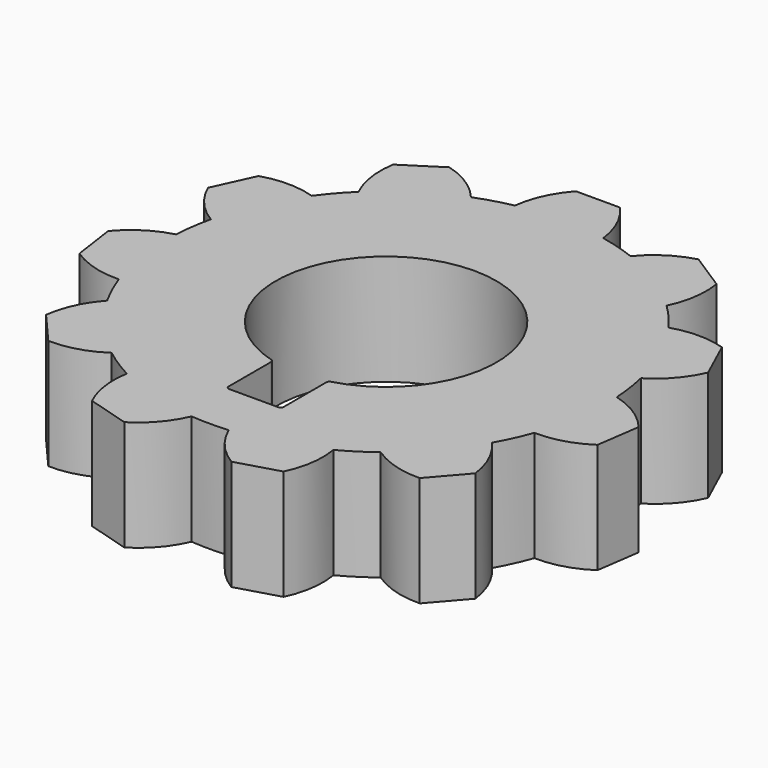
from build123d import *

# Parameters (mm, degrees)
F1_DEPTH = 6.35


with BuildPart() as f1:
    # F0 (on Top) → F1 (new body)
    with BuildSketch(Plane.XY):
        with BuildLine():
            Line((1.27, 15.24), (-1.27, 15.24))
            ThreePointArc((-1.27, 15.24), (-2.121422, 13.939986), (-2.54, 12.443408))
            ThreePointArc((-2.54, 12.443408), (-3.578003, 12.185561), (-4.59063, 11.841289))
            ThreePointArc((-4.59063, 11.841289), (-5.751872, 12.87399), (-7.170974, 13.507318))
            Line((-7.170974, 13.507318), (-9.307758, 12.13409))
            ThreePointArc((-9.307758, 12.13409), (-9.321179, 10.580136), (-8.864198, 9.094833))
            ThreePointArc((-8.864198, 9.094833), (-9.59802, 8.316731), (-10.263768, 7.479644))
            ThreePointArc((-10.263768, 7.479644), (-11.798987, 7.720592), (-13.335215, 7.486157))
            Line((-13.335215, 7.486157), (-14.390369, 5.175692))
            ThreePointArc((-14.390369, 5.175692), (-13.561528, 3.861167), (-12.374076, 2.858713))
            ThreePointArc((-12.374076, 2.858713), (-12.570732, 1.807398), (-12.678232, 0.743265))
            ThreePointArc((-12.678232, 0.743265), (-14.100007, 0.115962), (-15.265619, -0.911805))
            Line((-15.265619, -0.911805), (-14.904139, -3.425951))
            ThreePointArc((-14.904139, -3.425951), (-13.496187, -4.083695), (-11.955272, -4.285028))
            ThreePointArc((-11.955272, -4.285028), (-11.552326, -5.275771), (-11.067446, -6.229095))
            ThreePointArc((-11.067446, -6.229095), (-11.924374, -7.525486), (-12.349297, -9.020276))
            Line((-12.349297, -9.020276), (-10.68595, -10.93988))
            ThreePointArc((-10.68595, -10.93988), (-9.145903, -10.732013), (-7.740754, -10.068303))
            ThreePointArc((-7.740754, -10.068303), (-6.866138, -10.68392), (-5.942825, -11.223762))
            ThreePointArc((-5.942825, -11.223762), (-5.962837, -12.777645), (-5.51216, -14.264873))
            Line((-5.51216, -14.264873), (-3.075048, -14.980473))
            ThreePointArc((-3.075048, -14.980473), (-1.891859, -13.972992), (-1.068601, -12.654963))
            ThreePointArc((-1.068601, -12.654963), (0, -12.7), (1.068601, -12.654963))
            ThreePointArc((1.068601, -12.654963), (1.891859, -13.972992), (3.075048, -14.980473))
            Line((3.075048, -14.980473), (5.51216, -14.264873))
            ThreePointArc((5.51216, -14.264873), (5.962837, -12.777645), (5.942825, -11.223762))
            ThreePointArc((5.942825, -11.223762), (6.866138, -10.68392), (7.740754, -10.068303))
            ThreePointArc((7.740754, -10.068303), (9.145903, -10.732013), (10.68595, -10.93988))
            Line((10.68595, -10.93988), (12.349297, -9.020276))
            ThreePointArc((12.349297, -9.020276), (11.924374, -7.525486), (11.067446, -6.229095))
            ThreePointArc((11.067446, -6.229095), (11.552326, -5.275771), (11.955272, -4.285028))
            ThreePointArc((11.955272, -4.285028), (13.496187, -4.083695), (14.904139, -3.425951))
            Line((14.904139, -3.425951), (15.265619, -0.911805))
            ThreePointArc((15.265619, -0.911805), (14.100007, 0.115962), (12.678232, 0.743265))
            ThreePointArc((12.678232, 0.743265), (12.570732, 1.807398), (12.374076, 2.858713))
            ThreePointArc((12.374076, 2.858713), (13.561528, 3.861167), (14.390369, 5.175692))
            Line((14.390369, 5.175692), (13.335215, 7.486157))
            ThreePointArc((13.335215, 7.486157), (11.798987, 7.720592), (10.263768, 7.479644))
            ThreePointArc((10.263768, 7.479644), (9.59802, 8.316731), (8.864198, 9.094833))
            ThreePointArc((8.864198, 9.094833), (9.321179, 10.580136), (9.307758, 12.13409))
            Line((9.307758, 12.13409), (7.170974, 13.507318))
            ThreePointArc((7.170974, 13.507318), (5.751872, 12.87399), (4.59063, 11.841289))
            ThreePointArc((4.59063, 11.841289), (3.578003, 12.185561), (2.54, 12.443408))
            ThreePointArc((2.54, 12.443408), (2.121422, 13.939986), (1.27, 15.24))
        make_face()
        with BuildLine():
            ThreePointArc((-1.717218, -6.1134), (0, 6.35), (1.717218, -6.1134))
            ThreePointArc((1.717218, -6.1134), (1.623593, -6.177189), (1.5875, -6.284575))
            Line((1.5875, -6.284575), (1.5875, -9.3472))
            ThreePointArc((1.5875, -9.3472), (1.535424, -9.472924), (1.4097, -9.525))
            Line((1.4097, -9.525), (-1.4097, -9.525))
            ThreePointArc((-1.4097, -9.525), (-1.535424, -9.472924), (-1.5875, -9.3472))
            Line((-1.5875, -9.3472), (-1.5875, -6.284575))
            ThreePointArc((-1.5875, -6.284575), (-1.623593, -6.177189), (-1.717218, -6.1134))
        make_face(mode=Mode.SUBTRACT)
    extrude(amount=F1_DEPTH)


solid = f1.part
